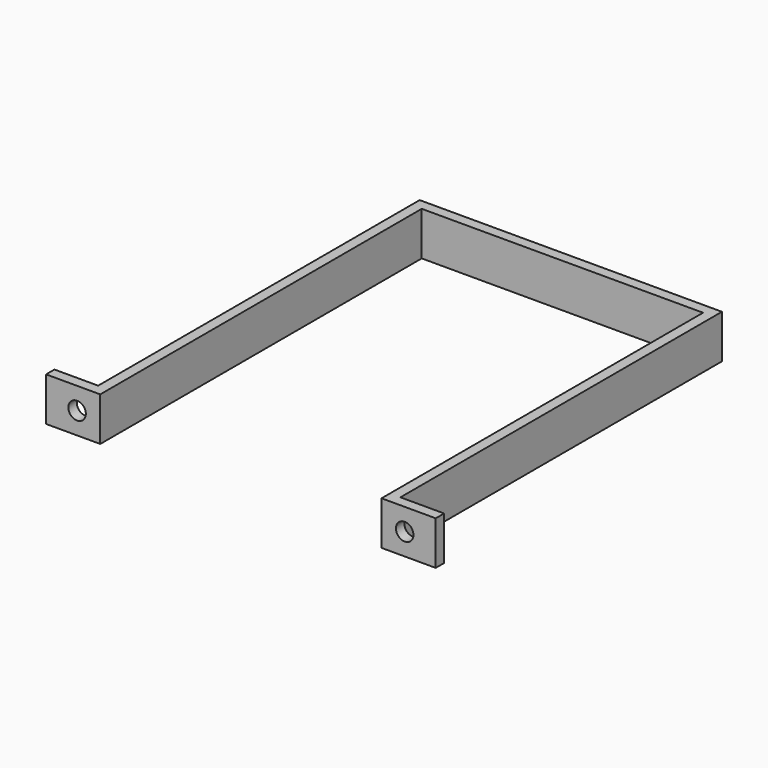
from build123d import *

# Parameters (mm, degrees)
PAD_DEPTH    = 10
SKETCH001_R  = 2
POCKET_DEPTH = 5


with BuildPart() as part:
    # Sketch → Pad (new body)
    with BuildSketch(Plane.XY):
        Polygon((34.6, 94.4), (-34.6, 94.4), (-34.6, 2.4), (-44.6, 2.4), (-44.6, 0), (-32.2, 0), (-32.2, 92), (32.2, 92), (32.2, 0), (44.6, 0), (44.6, 2.4), (34.6, 2.4), align=None)
    extrude(amount=PAD_DEPTH)

    # Sketch001 → Pocket (cut)
    with BuildSketch(Plane.XZ):
        with Locations((-37.5, 5)):
            Circle(SKETCH001_R)
        with Locations((37.5, 5)):
            Circle(SKETCH001_R)
    extrude(amount=-POCKET_DEPTH, mode=Mode.SUBTRACT)


solid = part.part
